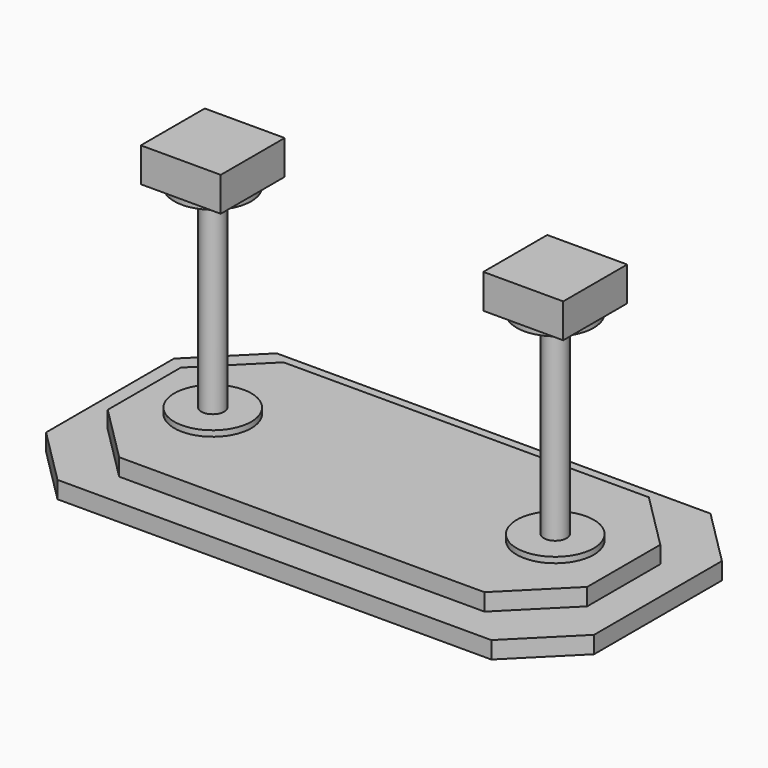
from build123d import *

# Parameters (mm, degrees)
F0_W      = 609.6
F0_H      = 304.8
F1_DEPTH  = 19.05
F2_W      = 533.4
F2_H      = 228.6
F3_DEPTH  = 19.05
F4_R      = 42.8625
F5_DEPTH  = 6.35
F6_R      = 12.7
F7_DEPTH  = 215.9
F8_R      = 42.8625
F9_DEPTH  = 6.35
F10_W     = 88.9
F10_H     = 88.9
F11_DEPTH = 38.1
F12_SIZE  = 63.5


with BuildPart() as f1:
    # F0 (on Top) → F1 (new body)
    with BuildSketch(Plane.XY):
        Rectangle(F0_W, F0_H)
    extrude(amount=F1_DEPTH)

    # F2 (on face) → F3 (join)
    with BuildSketch(Plane.XY.offset(19.05)):
        Rectangle(F2_W, F2_H)
    extrude(amount=F3_DEPTH)

    # F4 (on face) → F5 (join)
    with BuildSketch(Plane.XY.offset(38.1)):
        with Locations((-190.5, 0)):
            Circle(F4_R)
        with Locations((190.5, 0)):
            Circle(F4_R)
    extrude(amount=F5_DEPTH)

    # F6 (on face) → F7 (join)
    with BuildSketch(Plane.XY.offset(44.45)):
        with Locations((-190.5, 0)):
            Circle(F6_R)
        with Locations((190.5, 0)):
            Circle(F6_R)
    extrude(amount=F7_DEPTH)

    # F8 (on face) → F9 (join)
    with BuildSketch(Plane.XY.offset(260.35)):
        with Locations((-190.5, 0)):
            Circle(F8_R)
        with Locations((190.5, 0)):
            Circle(F8_R)
    extrude(amount=F9_DEPTH)

    # F10 (on face) → F11 (join)
    with BuildSketch(Plane.XY.offset(266.7)):
        with Locations((-190.5, 0)):
            Rectangle(F10_W, F10_H)
        with Locations((190.5, 0)):
            Rectangle(F10_W, F10_H)
    extrude(amount=F11_DEPTH)

    # F12
    f12_edges = [f1.edges().sort_by_distance(p)[0] for p in [
        (-266.7, 114.3, 28.575),
        (-266.7, -114.3, 28.575),
        (-304.8, -152.4, 9.525),
        (-304.8, 152.4, 9.525),
        (266.7, 114.3, 28.575),
        (266.7, -114.3, 28.575),
        (304.8, 152.4, 9.525),
        (304.8, -152.4, 9.525),
    ]]
    chamfer(f12_edges, length=F12_SIZE)


solid = f1.part
